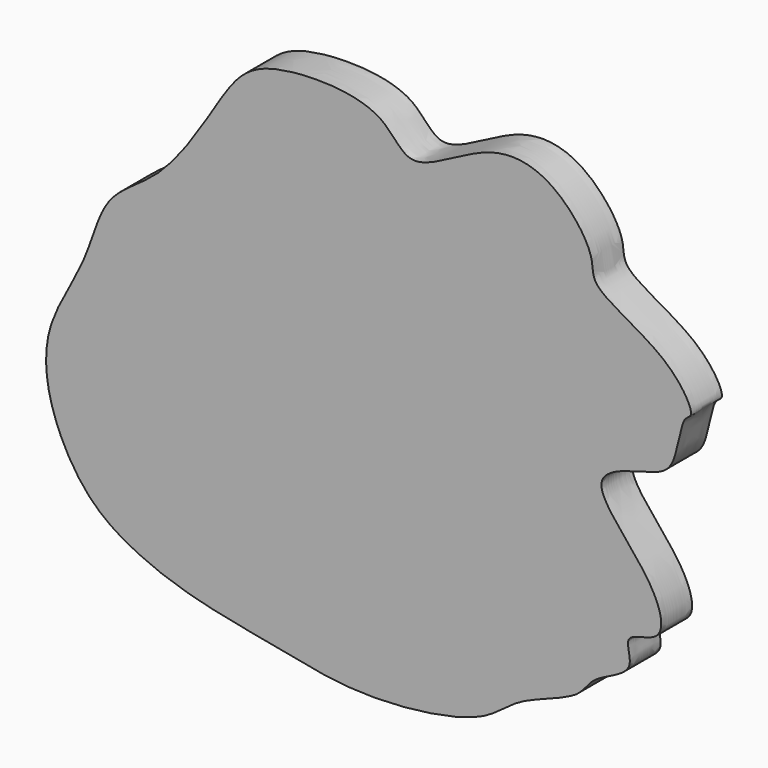
from build123d import *

# Parameters (mm, degrees)
F1_DEPTH = 6.35


with BuildPart() as f1:
    # F0 (on Front) → F1 (new body)
    with BuildSketch(Plane.XZ):
        with BuildLine():
            add(Edge.make_bspline(
                [(-12.4762533233, 54.5123107731), (-15.9157350313, 54.1391141626), (-20.8800350052, 52.5283587487), (-25.8009757163, 44.3962743649), (-33.8631933507, 31.7418167354), (-43.8189110045, 27.2428094942), (-46.1290943645, 15.7414323739), (-53.6314529016, 5.0802163727), (-53.0039721938, -6.60155638), (-47.1213280756, -17.7788462), (-39.1594247472, -23.2541278218), (-28.6613427069, -27.2030653432), (-14.204170482, -29.6574081766), (-0.6928410195, -32.6655795842), (19.169042466, -30.0072075426), (24.0378478233, -23.878663854), (35.0118189881, -21.0920345958), (36.4367081799, -16.7277699461), (44.6421100855, -14.472114228), (41.0862591078, -8.5090384638), (49.4338017197, -8.7598297802), (47.0533350874, 0.8952570278), (33.7674910679, 12.4601085391), (45.5797935037, 15.5346562148), (50.7137514577, 16.9194717645), (51.2563843623, 25.634434119), (53.969994101, 25.8736692069), (49.478946155, 33.9877234623), (36.0729299655, 39.1229441742), (37.4806827656, 44.052895108), (30.6766356636, 53.2672833697), (19.599487004, 55.4510339572), (6.553261518, 45.047517527), (2.734246071, 54.6185926288), (-7.9410537148, 55.0043968679), (-12.4762533233, 54.5123107731)],
                knots=[0, 0, 0, 0, 0.0286933672, 0.0587171886, 0.0972430531, 0.1289827402, 0.1618314828, 0.1974507279, 0.2307301514, 0.265485402, 0.2959591954, 0.3291331576, 0.3669324961, 0.4052357345, 0.4482711257, 0.4763200285, 0.5079440054, 0.5289103297, 0.5545496422, 0.5742611553, 0.5963344675, 0.6240791556, 0.6613649713, 0.6891800815, 0.7124132821, 0.7394558169, 0.7511763681, 0.7784450643, 0.8152936754, 0.8348304013, 0.8666172001, 0.8994765861, 0.9358640149, 0.9621657684, 1, 1, 1, 1], degree=3))
        make_face()
    extrude(amount=F1_DEPTH)


solid = f1.part
